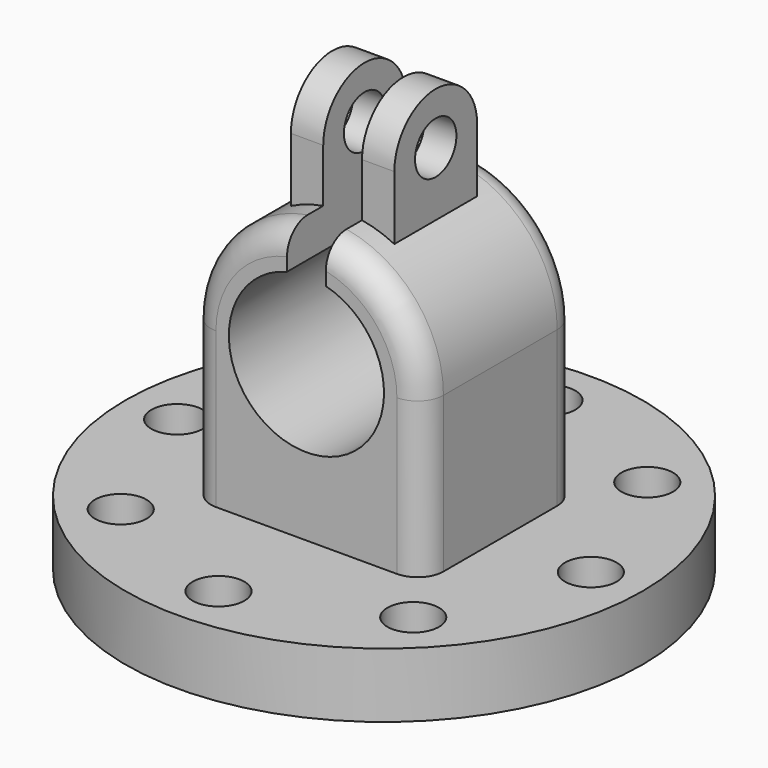
from build123d import *

# Parameters (mm, degrees)
SKETCH_R           = 20
PAD_DEPTH          = 5
PAD001_DEPTH       = 7.5
PAD002_DEPTH       = 4
SKETCH003_R        = 2
POCKET_DEPTH       = 24.001
POCKET001_DEPTH    = 27.501
SKETCH005_R        = 2
POCKET002_DEPTH    = 137.001
POLARPATTERN_COUNT = 8
FILLET_R           = 2


with BuildPart() as part:
    # Sketch → Pad (new body)
    with BuildSketch(Plane.XY):
        Circle(SKETCH_R)
    extrude(amount=PAD_DEPTH)

    # Sketch001 → Pad001 (join, symmetric)
    with BuildSketch(Plane.XZ):
        with BuildLine():
            Line((9, 17), (9, 5))
            Line((9, 5), (-9, 5))
            Line((-9, 5), (-9, 17))
            ThreePointArc((9, 17), (0, 26), (-9, 17))
        make_face()
    extrude(amount=PAD001_DEPTH, both=True)

    # Sketch002 → Pad002 (join, symmetric)
    with BuildSketch(Plane.YZ):
        with BuildLine():
            Line((-4, 14.18), (-4, 30))
            ThreePointArc((4, 30), (0, 34), (-4, 30))
            Line((4, 30), (4, 14.18))
            Line((4, 14.18), (-4, 14.18))
        make_face()
    extrude(amount=PAD002_DEPTH, both=True)

    # Sketch003 (on Face11 of Pad002) → Pocket (cut, through all)
    with BuildSketch(Plane.YZ.offset(4)):
        with Locations((0, 30)):
            Circle(SKETCH003_R)
    extrude(amount=-POCKET_DEPTH, mode=Mode.SUBTRACT)

    # Sketch004 (on Face4 of Pocket) → Pocket001 (cut, through all)
    with BuildSketch(Plane(origin=(0, 7.5, 0), x_dir=(-1, 0, 0), z_dir=(0, 1, 0))):
        with BuildLine():
            ThreePointArc((-1.5, 22.809475), (0, 11), (1.5, 22.809475))
            Line((1.5, 39.04), (1.5, 22.809475))
            Line((-1.5, 39.04), (1.5, 39.04))
            Line((-1.5, 22.809475), (-1.5, 39.04))
        make_face()
    extrude(amount=-POCKET001_DEPTH, mode=Mode.SUBTRACT)

    # Sketch005 (on Face3 of Pocket001) → Pocket002 (cut, through all)
    with BuildSketch(Plane.XY.offset(5)):
        with Locations((16, 0)):
            Circle(SKETCH005_R)
    pocket002 = extrude(amount=-POCKET002_DEPTH, mode=Mode.SUBTRACT)

    # PolarPattern: Pocket002 ×8 about axis
    polarpattern_axis = Axis((0, 0, 5), (0, 0, 1))
    for i in range(1, POLARPATTERN_COUNT):
        add(pocket002.rotate(polarpattern_axis, i * 360 / POLARPATTERN_COUNT), mode=Mode.SUBTRACT)

    # Fillet
    fillet_edges = [part.edges().sort_by_distance(p)[0] for p in [
        (-6.873864, 7.5, 22.809475),
        (6.873864, 7.5, 22.809475),
        (6.873864, -7.5, 22.809475),
        (-6.873864, -7.5, 22.809475),
    ]]
    fillet(fillet_edges, radius=FILLET_R)


solid = part.part
